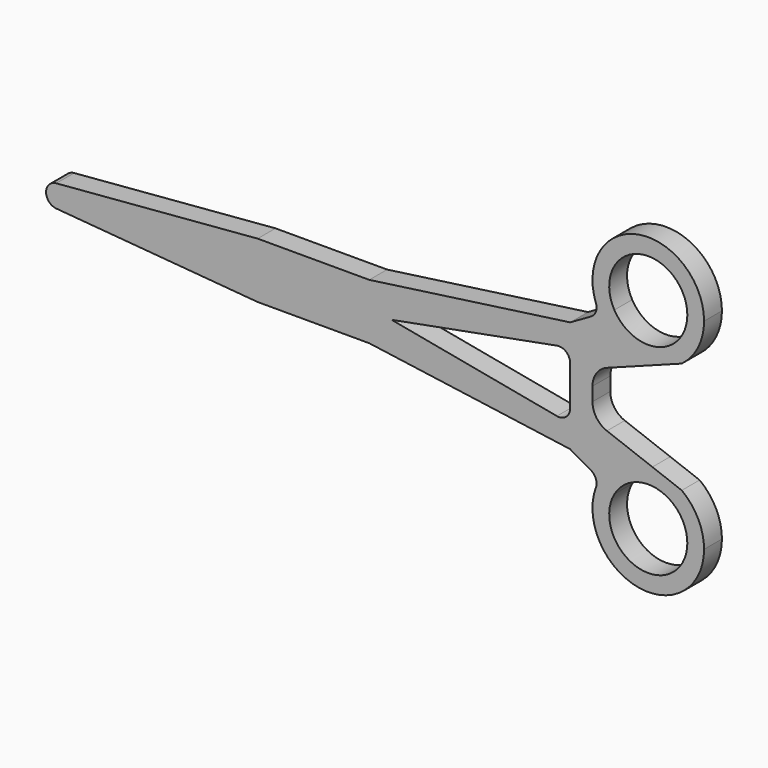
from build123d import *

# Parameters (mm, degrees)
F1_DEPTH = 2
F2_R     = 2
F3_R     = 1


with BuildPart() as f1:
    # F0 (on Front) → F1 (new body)
    with BuildSketch(Plane.XZ):
        with BuildLine():
            Line((30, 2.5), (0, 0))
            Line((0, 0), (42, 0))
            Line((42, 0), (58, 3))
            Line((58, 3), (58, 0))
            Line((58, 0), (60, 0))
            Line((60, 0), (60, 2))
            Line((60, 2), (65.3698630137, 4.0136986301))
            ThreePointArc((65.3698630137, 4.0136986301), (62.6521442193, 4.5855268454), (60.6587842894, 6.5193053082))
            Line((60.6587842894, 6.5193053082), (58, 5))
            Line((58, 5), (40, 2.5))
            Line((40, 2.5), (30, 2.5))
        make_face()
        with BuildLine():
            Line((42, 0), (0, 0))
            Line((0, 0), (30, -2.5))
            Line((30, -2.5), (40, -2.5))
            Line((40, -2.5), (58, -5))
            Line((58, -5), (60.6587842894, -6.5193053082))
            ThreePointArc((60.6587842894, -6.5193053082), (62.6521442193, -4.5855268454), (65.3698630137, -4.0136986301))
            Line((65.3698630137, -4.0136986301), (60, -2))
            Line((60, -2), (60, 0))
            Line((60, 0), (58, 0))
            Line((58, 0), (58, -3))
            Line((58, -3), (42, 0))
        make_face()
        with BuildLine():
            ThreePointArc((70, 9), (63.7166603242, 13.8324982438), (60.6587842894, 6.5193053082))
            ThreePointArc((60.6587842894, 6.5193053082), (62.6521442193, 4.5855268454), (65.3698630137, 4.0136986301))
            Line((65.3698630137, 4.0136986301), (68, 5))
            ThreePointArc((68, 5), (69.472135955, 6.7639320225), (70, 9))
        make_face()
        with BuildLine():
            ThreePointArc((68.5, 9), (65.898337773, 5.6172512293), (61.9611490026, 7.2635137158))
            ThreePointArc((61.9611490026, 7.2635137158), (64.101662227, 12.3827487707), (68.5, 9))
        make_face(mode=Mode.SUBTRACT)
        with BuildLine():
            ThreePointArc((65.3698630137, -4.0136986301), (62.6521442193, -4.5855268454), (60.6587842894, -6.5193053082))
            ThreePointArc((60.6587842894, -6.5193053082), (63.7166603242, -13.8324982438), (70, -9))
            ThreePointArc((70, -9), (69.472135955, -6.7639320225), (68, -5))
            Line((68, -5), (65.3698630137, -4.0136986301))
        make_face()
        with BuildLine():
            ThreePointArc((68.5, -9), (64.101662227, -12.3827487707), (61.9611490026, -7.2635137158))
            ThreePointArc((61.9611490026, -7.2635137158), (65.898337773, -5.6172512293), (68.5, -9))
        make_face(mode=Mode.SUBTRACT)
    extrude(amount=F1_DEPTH)

    # F2
    f2_edges = [f1.edges().sort_by_distance(p)[0] for p in [
        (60, -1, 2),
        (60, -1, -2),
    ]]
    fillet(f2_edges, radius=F2_R)

    # F3
    f3_edges = [f1.edges().sort_by_distance(p)[0] for p in [
        (58, -1, 3),
        (58, -1, -3),
        (60.658784, -1, -6.519305),
        (60.658784, -1, 6.519305),
        (0, -1, 0),
    ]]
    fillet(f3_edges, radius=F3_R)


solid = f1.part
